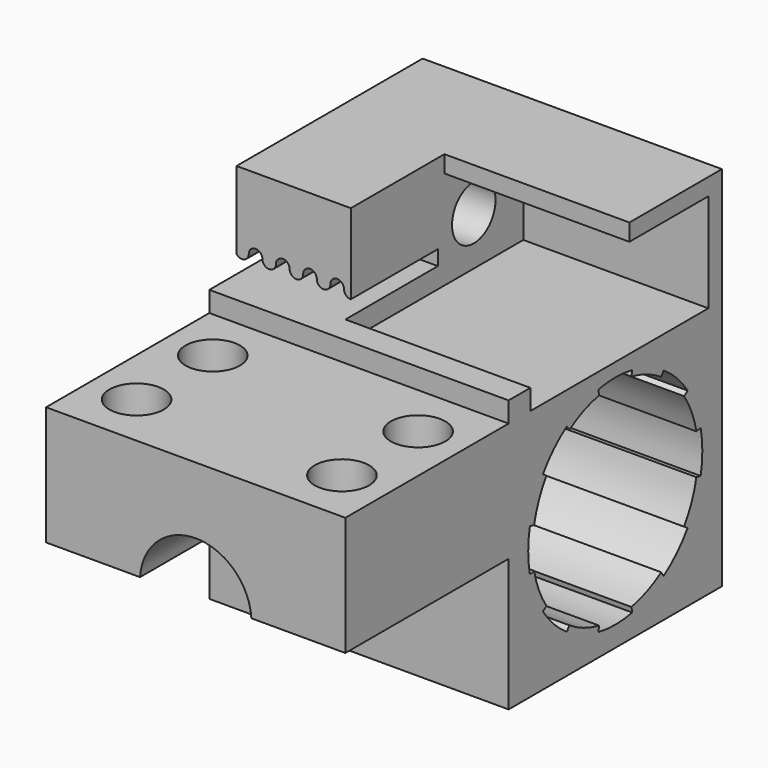
from build123d import *

# Parameters (mm, degrees)
PAD017_DEPTH       = 15
SKETCH040_R        = 2
POCKET019_DEPTH    = 9.001
SKETCH_W           = 19.6
SKETCH_H           = 18.5
SKETCH_R           = 7.6
PAD_DEPTH          = 22
SKETCH002_W        = 17.1
SKETCH002_H        = 8.4
PAD001_DEPTH       = 8.5
POCKET_DEPTH       = 8
PAD002_DEPTH       = 13.6
SKETCH005_R        = 2
POCKET001_DEPTH    = 22.001
POCKET002_DEPTH    = 101.929968
POLARPATTERN_COUNT = 8
PAD004_DEPTH       = 1.5
SKETCH041_R        = 1.3
POCKET020_DEPTH    = 5


with BuildPart() as body023:
    # Sketch039 (on DatumPlane) → Pad017 (new body)
    with BuildSketch(Plane(origin=(0, -9.8, 0), x_dir=(0, 0, -1), z_dir=(0, -1, 0))):
        with BuildLine():
            Line((-9, 0), (-0.25, 0))
            Line((-0.25, 0), (-0.25, -6.907629))
            ThreePointArc((-0.25, -6.907629), (-4.1, -11), (-0.25, -15.092371))
            Line((-0.25, -15.092371), (-0.25, -22))
            Line((-0.25, -22), (-9, -22))
            Line((-9, -22), (-9, 0))
        make_face()
    extrude(amount=PAD017_DEPTH)

    # Sketch040 → Pocket019 (cut, through all)
    with BuildSketch(Plane.XY):
        with Locations((-18.546185, -20.8)):
            Circle(SKETCH040_R)
        with Locations((-18.546185, -13.8)):
            Circle(SKETCH040_R)
        with Locations((-3.453815, -13.8)):
            Circle(SKETCH040_R)
        with Locations((-3.453815, -20.8)):
            Circle(SKETCH040_R)
    extrude(amount=POCKET019_DEPTH, mode=Mode.SUBTRACT)


with BuildPart() as printable_axisholder_x_fusion:
    # Sketch → Pad (new body)
    with BuildSketch(Plane.YZ):
        with Locations((0, -0.25)):
            Rectangle(SKETCH_W, SKETCH_H)
        Circle(SKETCH_R, mode=Mode.SUBTRACT)
    extrude(amount=-PAD_DEPTH)

    # Sketch002 → Pad001 (join)
    with BuildSketch(Plane(origin=(0, 0, 9), x_dir=(0, -1, 0), z_dir=(0, 0, 1))):
        with Locations((-1.25, -17.8)):
            Rectangle(SKETCH002_W, SKETCH002_H)
    extrude(amount=PAD001_DEPTH)

    # Sketch003 → Pocket (cut)
    with BuildSketch(Plane(origin=(0, -7.3, 0), x_dir=(0, 0, -1), z_dir=(0, -1, 0))):
        with BuildLine():
            Line((-10.5, -22), (-10.5, -13.6))
            Line((-10.5, -13.6), (-11.6, -13.6))
            ThreePointArc((-12.1, -14.1), (-11.746447, -13.953553), (-11.6, -13.6))
            ThreePointArc((-12.1, -14.1), (-12.6, -14.6), (-12.1, -15.1))
            ThreePointArc((-12.1, -16.1), (-11.6, -15.6), (-12.1, -15.1))
            ThreePointArc((-12.1, -16.1), (-12.6, -16.6), (-12.1, -17.1))
            ThreePointArc((-12.1, -18.1), (-11.6, -17.6), (-12.1, -17.1))
            ThreePointArc((-12.1, -18.1), (-12.6, -18.6), (-12.1, -19.1))
            ThreePointArc((-12.1, -20.1), (-11.6, -19.6), (-12.1, -19.1))
            ThreePointArc((-12.1, -20.1), (-12.6, -20.6), (-12.1, -21.1))
            ThreePointArc((-11.8, -22), (-11.625658, -21.441886), (-12.1, -21.1))
            Line((-11.8, -22), (-10.5, -22))
        make_face()
    extrude(amount=-POCKET_DEPTH, mode=Mode.SUBTRACT)

    # Sketch004 (on DatumPlane) → Pad002 (join)
    with BuildSketch(Plane.YZ):
        Polygon((9.8, 17.5), (1.3, 17.5), (1.3, 16.25), (8.55, 16.25), (8.55, 9), (9.8, 9), align=None)
    extrude(amount=-PAD002_DEPTH)

    # Sketch005 (on DatumPlane) → Pocket001 (cut, through all)
    with BuildSketch(Plane.YZ):
        with Locations((4, 12.625)):
            Circle(SKETCH005_R)
    extrude(amount=-POCKET001_DEPTH, mode=Mode.SUBTRACT)

    # Sketch006 (on DatumPlane) → Pocket002 (cut, through all)
    with BuildSketch(Plane.YZ):
        with BuildLine():
            ThreePointArc((-7.846282, 1.560723), (-8, 0), (-7.846282, -1.560723))
            Line((-6.708571, -1.334418), (-7.846282, -1.560723))
            ThreePointArc((-6.708571, 1.334418), (-6.84, 0), (-6.708571, -1.334418))
            Line((-6.708571, 1.334418), (-7.846282, 1.560723))
        make_face()
    pocket002 = extrude(amount=-POCKET002_DEPTH, mode=Mode.SUBTRACT)

    # PolarPattern: Pocket002 ×8 about axis
    polarpattern_axis = Axis((0, 0, 0), (1, 0, 0))
    for i in range(1, POLARPATTERN_COUNT):
        add(pocket002.rotate(polarpattern_axis, i * 360 / POLARPATTERN_COUNT), mode=Mode.SUBTRACT)

    # Sketch010 (on DatumPlane) → Pad004 (join)
    with BuildSketch(Plane.XY.offset(9)):
        Polygon((0, -7.8), (-13.6, -7.8), (-13.6, -7.3), (-22, -7.3), (-22, -9.8), (0, -9.8), align=None)
    extrude(amount=PAD004_DEPTH)

    # Sketch041 → Pocket020 (cut)
    with BuildSketch(Plane.XY.offset(-9.5)):
        with Locations((-11, 0)):
            Circle(SKETCH041_R)
    extrude(amount=POCKET020_DEPTH, mode=Mode.SUBTRACT)

    # Fusion: union Body023
    add(body023.part)


solid = printable_axisholder_x_fusion.part
